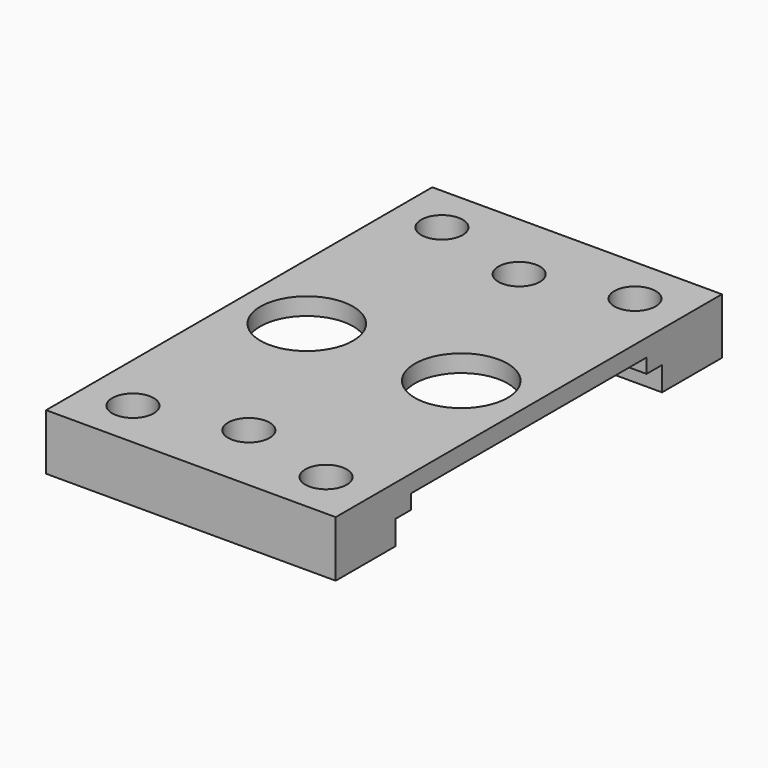
from build123d import *

# Parameters (mm, degrees)
PAD_DEPTH       = 15
PAD_DEPTH_BACK  = 15
SKETCH001_R     = 2.15
HOLE_DEPTH      = 25
SKETCH003_R     = 4.8
POCKET001_DEPTH = 5


with BuildPart() as part:
    # Sketch → Pad (new body, two sides)
    with BuildSketch(Plane.YZ) as pad_sk:
        Polygon((-25, 0), (-25, -5.8), (-17.25, -5.8), (-17.25, -3.3), (-15.25, -3.3), (-15.25, -1.8), (15.25, -1.8), (15.25, -3.3), (17.25, -3.3), (17.25, -5.8), (25, -5.8), (25, 0), align=None)
    extrude(amount=PAD_DEPTH)
    extrude(pad_sk.sketch, amount=-PAD_DEPTH_BACK)

    # Sketch001 → Hole (cut)
    with BuildSketch(Plane.XY):
        with Locations((-10, 20)):
            Circle(SKETCH001_R)
        with Locations((0, 17.5)):
            Circle(SKETCH001_R)
        with Locations((10, 20)):
            Circle(SKETCH001_R)
        with Locations((10, -20)):
            Circle(SKETCH001_R)
        with Locations((0, -17.5)):
            Circle(SKETCH001_R)
        with Locations((-10, -20)):
            Circle(SKETCH001_R)
    extrude(amount=-HOLE_DEPTH, mode=Mode.SUBTRACT)

    # Sketch003 → Pocket001 (cut)
    with BuildSketch(Plane.XY):
        with Locations((-8, 0)):
            Circle(SKETCH003_R)
        with Locations((8, 0)):
            Circle(SKETCH003_R)
    extrude(amount=-POCKET001_DEPTH, mode=Mode.SUBTRACT)


solid = part.part
